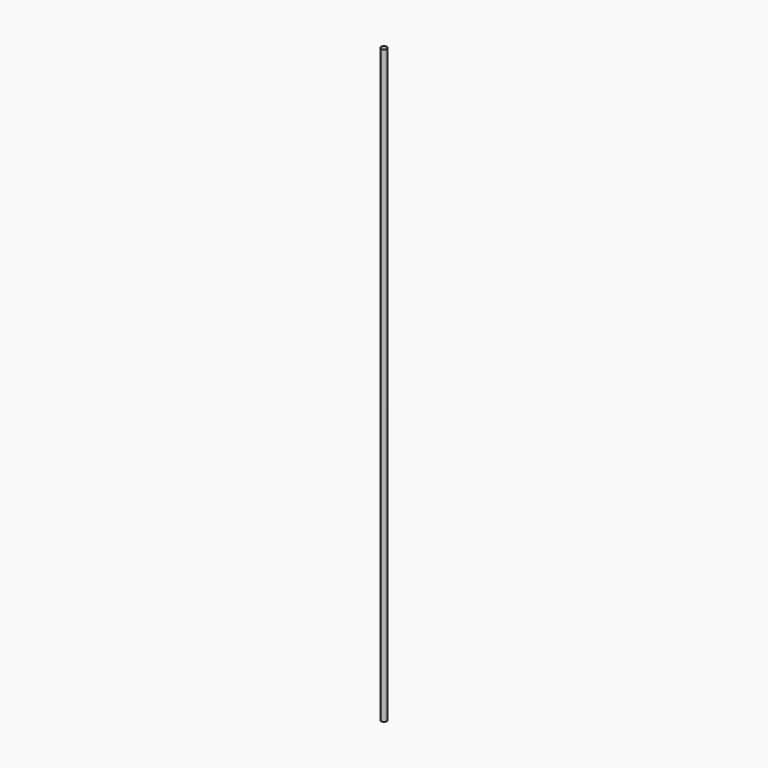
from build123d import *

# Parameters (mm, degrees)
F4_DEPTH = 90


with BuildPart() as f4:
    # F3 (on offset) → F4 (new body, symmetric)
    with BuildSketch(Plane.XY.offset(70)):
        with BuildLine():
            ThreePointArc((0, 19.125), (0.618718, 19.381282), (0.875, 20))
            ThreePointArc((0.875, 20), (-0.618718, 20.618718), (0, 19.125))
        make_face()
    extrude(amount=F4_DEPTH, both=True)


solid = f4.part
